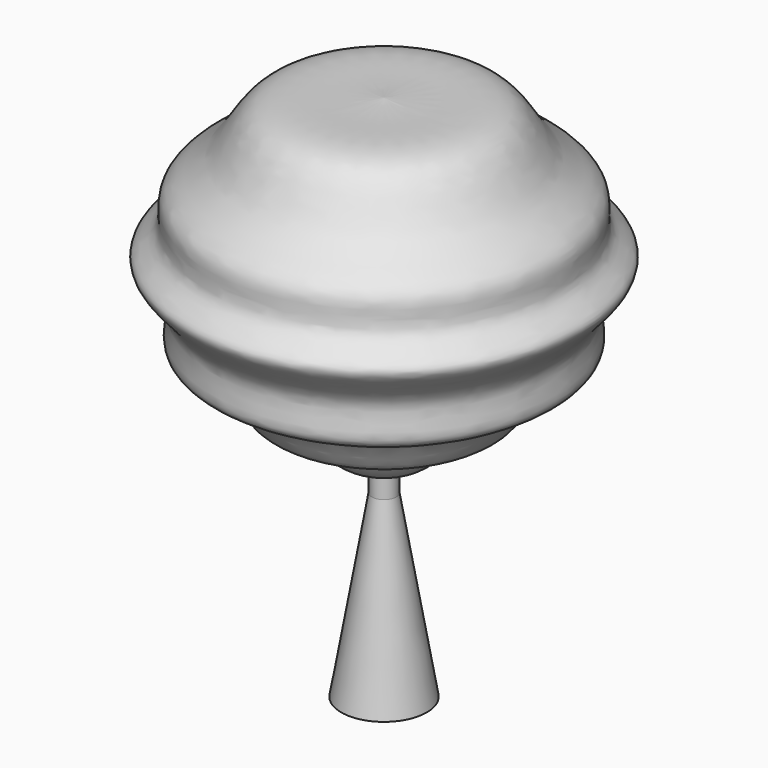
from build123d import *


with BuildPart() as f1:
    # F0 (on Front) → F1 (revolve)
    with BuildSketch(Plane.XZ):
        with BuildLine():
            Line((0, 0), (205.9410568874, 0))
            Line((205.9410568874, 0), (58.4142425433, 865.3095579281))
            Line((58.4142425433, 865.3095579281), (58.4142425433, 981.7225789274))
            add(Edge.make_bspline(
                [(0, 2540), (226.0071793778, 2515.3538433361), (523.3837060693, 2592.5901796344), (639.6231098379, 2259.8961138422), (884.8540527129, 2152.113311059), (817.0111690736, 1962.135559516), (1039.2339895151, 1871.7318829047), (757.8675949131, 1689.3391878215), (891.1767059875, 1459.2125163821), (576.288311199, 1428.497601309), (548.2626308832, 1180.9058261255), (307.8155629213, 1239.5775463159), (248.3720930252, 1036.4798323827), (127.7006405383, 991.4992087397), (58.4142425433, 981.7225789274)],
                knots=[0, 0, 0, 0, 0.1266663386, 0.2217643502, 0.3077869917, 0.3774209858, 0.4452541649, 0.5317711726, 0.6074618546, 0.6931471792, 0.7719685765, 0.8474167454, 0.921893171, 1, 1, 1, 1], degree=3))
            Line((0, 2540), (0, 0))
        make_face()
    revolve(axis=Axis((0, 0, 1270), (0, 0, 1)))


solid = f1.part
